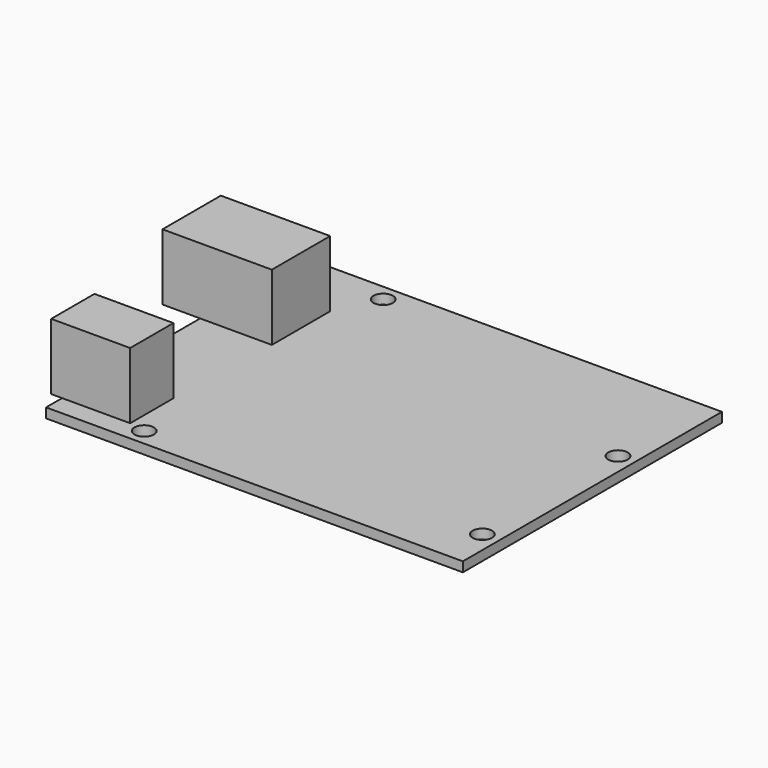
from build123d import *

# Parameters (mm, degrees)
F0_W     = 68.6
F0_H     = 53.3
F0_R     = 1.6
F1_DEPTH = 1.6
F3_W     = 13
F3_H     = 8.9
F3_W_2   = 18
F3_H_2   = 12
F4_DEPTH = 10.9


with BuildPart() as f1:
    # F0 (on Top) → F1 (new body)
    with BuildSketch(Plane.XY):
        with Locations((34.3, 26.65)):
            Rectangle(F0_W, F0_H)
        with Locations((13.95, 2.75)):
            Circle(F0_R, mode=Mode.SUBTRACT)
        with Locations((65.85, 7.45)):
            Circle(F0_R, mode=Mode.SUBTRACT)
        with Locations((15.05, 50.55)):
            Circle(F0_R, mode=Mode.SUBTRACT)
        with Locations((65.85, 35.35)):
            Circle(F0_R, mode=Mode.SUBTRACT)
    extrude(amount=F1_DEPTH)

    # F3 (on offset) → F4 (join)
    with BuildSketch(Plane.XY.offset(1.6)):
        with Locations((4.7, 7.75)):
            Rectangle(F3_W, F3_H)
        with Locations((2.8, 37.7)):
            Rectangle(F3_W_2, F3_H_2)
    extrude(amount=F4_DEPTH)


solid = f1.part
